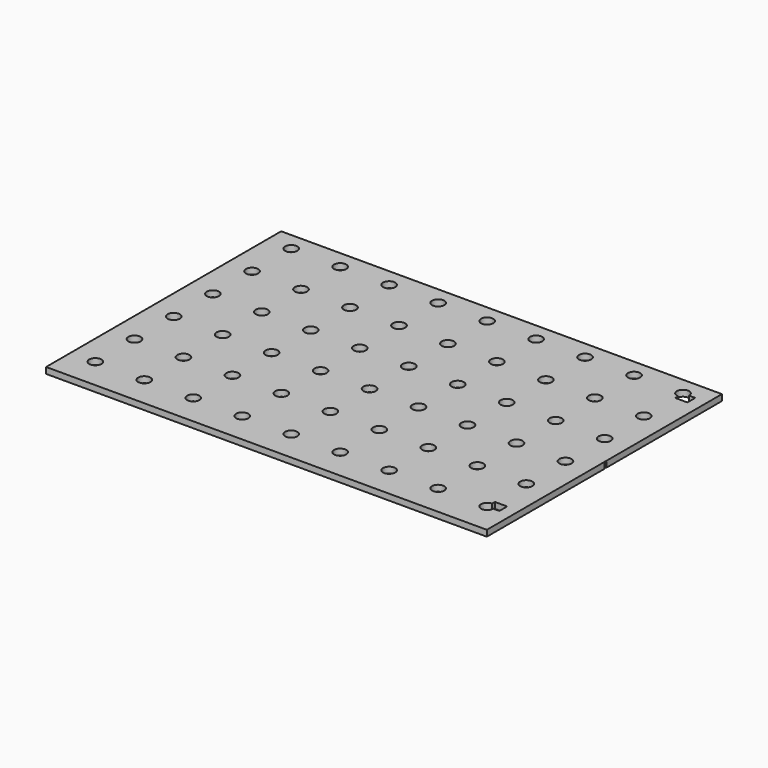
from build123d import *

# Parameters (mm, degrees)
F0_W     = 457.2
F0_H     = 304.8
F0_R     = 6.35
F1_DEPTH = 6.35
F2_W     = 2.54
F2_H     = 5.08
F3_DEPTH = 2.54


with BuildPart() as f1:
    # F0 (on Top) → F1 (new body)
    with BuildSketch(Plane.XY):
        with Locations((228.6, -152.4)):
            Rectangle(F0_W, F0_H)
        with Locations((25.4, -272.70785)):
            Circle(F0_R, mode=Mode.SUBTRACT)
        with Locations((76.2, -272.70785)):
            Circle(F0_R, mode=Mode.SUBTRACT)
        with Locations((127, -272.70785)):
            Circle(F0_R, mode=Mode.SUBTRACT)
        with Locations((177.8, -272.70785)):
            Circle(F0_R, mode=Mode.SUBTRACT)
        with Locations((25.4, -221.90785)):
            Circle(F0_R, mode=Mode.SUBTRACT)
        with Locations((76.2, -221.90785)):
            Circle(F0_R, mode=Mode.SUBTRACT)
        with Locations((25.4, -171.10785)):
            Circle(F0_R, mode=Mode.SUBTRACT)
        with Locations((76.2, -171.10785)):
            Circle(F0_R, mode=Mode.SUBTRACT)
        with Locations((127, -221.90785)):
            Circle(F0_R, mode=Mode.SUBTRACT)
        with Locations((177.8, -221.90785)):
            Circle(F0_R, mode=Mode.SUBTRACT)
        with Locations((127, -171.10785)):
            Circle(F0_R, mode=Mode.SUBTRACT)
        with Locations((177.8, -171.10785)):
            Circle(F0_R, mode=Mode.SUBTRACT)
        with Locations((228.6, -272.70785)):
            Circle(F0_R, mode=Mode.SUBTRACT)
        with Locations((279.4, -272.70785)):
            Circle(F0_R, mode=Mode.SUBTRACT)
        with Locations((330.2, -272.70785)):
            Circle(F0_R, mode=Mode.SUBTRACT)
        with Locations((381, -272.70785)):
            Circle(F0_R, mode=Mode.SUBTRACT)
        with BuildLine():
            ThreePointArc((438.15, -272.70785), (427.309872, -277.197978), (431.8, -266.35785))
            Line((431.8, -266.35785), (431.8, -262.54785))
            Line((431.8, -262.54785), (444.5, -262.54785))
            Line((444.5, -262.54785), (444.5, -272.70785))
            Line((444.5, -272.70785), (438.15, -272.70785))
        make_face(mode=Mode.SUBTRACT)
        with Locations((228.6, -221.90785)):
            Circle(F0_R, mode=Mode.SUBTRACT)
        with Locations((279.4, -221.90785)):
            Circle(F0_R, mode=Mode.SUBTRACT)
        with Locations((330.2, -221.90785)):
            Circle(F0_R, mode=Mode.SUBTRACT)
        with Locations((228.6, -171.10785)):
            Circle(F0_R, mode=Mode.SUBTRACT)
        with Locations((279.4, -171.10785)):
            Circle(F0_R, mode=Mode.SUBTRACT)
        with Locations((330.2, -171.10785)):
            Circle(F0_R, mode=Mode.SUBTRACT)
        with Locations((381, -221.90785)):
            Circle(F0_R, mode=Mode.SUBTRACT)
        with Locations((431.8, -221.90785)):
            Circle(F0_R, mode=Mode.SUBTRACT)
        with Locations((381, -171.10785)):
            Circle(F0_R, mode=Mode.SUBTRACT)
        with Locations((431.8, -171.10785)):
            Circle(F0_R, mode=Mode.SUBTRACT)
        with Locations((25.4, -120.30785)):
            Circle(F0_R, mode=Mode.SUBTRACT)
        with Locations((76.2, -120.30785)):
            Circle(F0_R, mode=Mode.SUBTRACT)
        with Locations((127, -120.30785)):
            Circle(F0_R, mode=Mode.SUBTRACT)
        with Locations((177.8, -120.30785)):
            Circle(F0_R, mode=Mode.SUBTRACT)
        with Locations((25.4, -69.50785)):
            Circle(F0_R, mode=Mode.SUBTRACT)
        with Locations((76.2, -69.50785)):
            Circle(F0_R, mode=Mode.SUBTRACT)
        with Locations((25.4, -18.70785)):
            Circle(F0_R, mode=Mode.SUBTRACT)
        with Locations((76.2, -18.70785)):
            Circle(F0_R, mode=Mode.SUBTRACT)
        with Locations((127, -69.50785)):
            Circle(F0_R, mode=Mode.SUBTRACT)
        with Locations((177.8, -69.50785)):
            Circle(F0_R, mode=Mode.SUBTRACT)
        with Locations((127, -18.70785)):
            Circle(F0_R, mode=Mode.SUBTRACT)
        with Locations((177.8, -18.70785)):
            Circle(F0_R, mode=Mode.SUBTRACT)
        with Locations((228.6, -120.30785)):
            Circle(F0_R, mode=Mode.SUBTRACT)
        with Locations((279.4, -120.30785)):
            Circle(F0_R, mode=Mode.SUBTRACT)
        with Locations((330.2, -120.30785)):
            Circle(F0_R, mode=Mode.SUBTRACT)
        with Locations((381, -120.30785)):
            Circle(F0_R, mode=Mode.SUBTRACT)
        with Locations((431.8, -120.30785)):
            Circle(F0_R, mode=Mode.SUBTRACT)
        with Locations((228.6, -69.50785)):
            Circle(F0_R, mode=Mode.SUBTRACT)
        with Locations((279.4, -69.50785)):
            Circle(F0_R, mode=Mode.SUBTRACT)
        with Locations((330.2, -69.50785)):
            Circle(F0_R, mode=Mode.SUBTRACT)
        with Locations((228.6, -18.70785)):
            Circle(F0_R, mode=Mode.SUBTRACT)
        with Locations((279.4, -18.70785)):
            Circle(F0_R, mode=Mode.SUBTRACT)
        with Locations((330.2, -18.70785)):
            Circle(F0_R, mode=Mode.SUBTRACT)
        with Locations((381, -69.50785)):
            Circle(F0_R, mode=Mode.SUBTRACT)
        with Locations((431.8, -69.50785)):
            Circle(F0_R, mode=Mode.SUBTRACT)
        with Locations((381, -18.70785)):
            Circle(F0_R, mode=Mode.SUBTRACT)
        with BuildLine():
            ThreePointArc((431.8, -25.05785), (427.309872, -14.217722), (438.15, -18.70785))
            Line((438.15, -18.70785), (444.5, -18.70785))
            Line((444.5, -18.70785), (444.5, -28.86785))
            Line((444.5, -28.86785), (431.8, -28.86785))
            Line((431.8, -28.86785), (431.8, -25.05785))
        make_face(mode=Mode.SUBTRACT)
    extrude(amount=F1_DEPTH)

    # F2 (on face) → F3 (cut)
    with BuildSketch(Plane.YZ.offset(457.2)):
        with Locations((-151.13, 2.54)):
            Rectangle(F2_W, F2_H)
    extrude(amount=-F3_DEPTH, mode=Mode.SUBTRACT)


solid = f1.part
